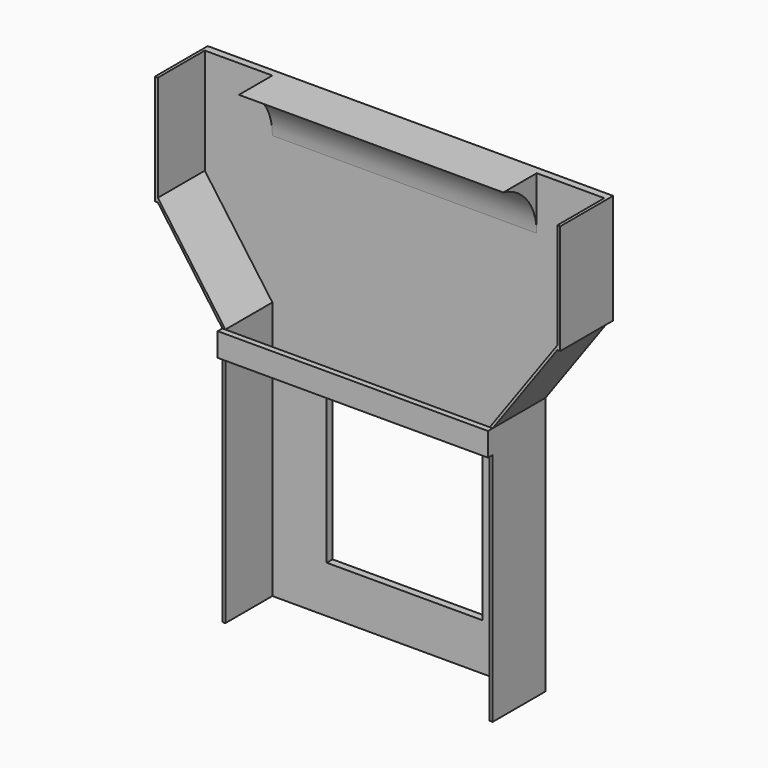
from build123d import *

# Parameters (mm, degrees)
F0_W      = 285.75
F0_H      = 279.4
F1_DEPTH  = 3.175
F2_W      = 285.75
F2_H      = 66.675
F3_DEPTH  = 215.9
F4_W      = 58.7375
F4_H      = 100.0125
F5_DEPTH  = 285.75
F6_W      = 285.75
F6_H      = 4.7625
F7_DEPTH  = 279.4
F9_DEPTH  = 25.4
F10_W     = 63.5
F10_H     = 279.4
F10_W_2   = 7.9375
F11_DEPTH = 3.175
F12_W     = 63.5
F12_H     = 279.4
F12_W_2   = 7.9375
F13_DEPTH = 3.175
F14_W     = 69.85
F14_H     = 71.4375
F15_DEPTH = 101.6
F17_DEPTH = 71.4375
F18_W     = 69.85
F18_H     = 71.4375
F19_DEPTH = 101.6
F21_DEPTH = 71.4375
F24_W     = 292.1
F24_H     = 25.4
F25_DEPTH = 6.35
F22_W     = 71.4375
F22_H     = 114.3
F22_H_2   = 4.4173913043
F26_DEPTH = 3.175
F23_W     = 71.4375
F23_H     = 4.4173913043
F23_H_2   = 114.3
F27_DEPTH = 3.175
F29_DEPTH = 101.6
F31_DEPTH = 25.4
F33_DEPTH = 101.6
F35_DEPTH = 25.4


with BuildPart() as f1:
    # F0 (on Front) → F1 (new body)
    with BuildSketch(Plane.XZ):
        with Locations((142.875, 139.7)):
            Rectangle(F0_W, F0_H)
    extrude(amount=F1_DEPTH)

    # F2 (on face) → F3 (join)
    with BuildSketch(Plane.XY.offset(279.4)):
        with Locations((142.875, -33.3375)):
            Rectangle(F2_W, F2_H)
    extrude(amount=F3_DEPTH)

    # F4 (on face) → F5 (cut)
    with BuildSketch(Plane.YZ.offset(285.75)):
        with Locations((-37.30625, 329.40625)):
            Rectangle(F4_W, F4_H)
        with BuildLine():
            Line((-7.9375, 379.4125), (-7.9375, 438.15))
            ThreePointArc((-7.9375, 438.15), (-25.1413154401, 396.6163154401), (-66.675, 379.4125))
            Line((-66.675, 379.4125), (-7.9375, 379.4125))
        make_face()
        with BuildLine():
            Line((-7.9375, 438.15), (-66.675, 438.15))
            Line((-66.675, 438.15), (-66.675, 379.4125))
            ThreePointArc((-66.675, 379.4125), (-25.1413154401, 396.6163154401), (-7.9375, 438.15))
        make_face()
        with BuildLine():
            Line((-53.1113940543, 495.3), (-66.675, 495.3))
            Line((-66.675, 495.3), (-66.675, 438.15))
            Line((-66.675, 438.15), (-7.9375, 438.15))
            ThreePointArc((-7.9375, 438.15), (-20.5947102305, 474.5739042527), (-53.1113940543, 495.3))
        make_face()
    extrude(amount=-F5_DEPTH, mode=Mode.SUBTRACT)

    # F6 (on face) → F7 (join)
    with BuildSketch(Plane(origin=(0, 0, 279.4), x_dir=(1, 0, 0), z_dir=(0, 0, -1))):
        with Locations((142.875, 5.55625)):
            Rectangle(F6_W, F6_H)
    extrude(amount=F7_DEPTH)

    # F8 (on face) → F9 (cut)
    with BuildSketch(Plane(origin=(0, 0, 0), x_dir=(-1, 0, 0), z_dir=(0, 1, 0))):
        Polygon((-227.0125, 50.8), (-142.875, 50.8), (-58.7375, 50.8), (-58.7375, 219.075), (-227.0125, 219.075), align=None)
    extrude(amount=-F9_DEPTH, mode=Mode.SUBTRACT)

    # F10 (on face) → F11 (join)
    with BuildSketch(Plane.YZ.offset(285.75)):
        with Locations((-39.6875, 139.7)):
            Rectangle(F10_W, F10_H)
        with Locations((-3.96875, 139.7)):
            Rectangle(F10_W_2, F10_H)
    extrude(amount=F11_DEPTH)

    # F12 (on face) → F13 (join)
    with BuildSketch(Plane(origin=(0, 0, 0), x_dir=(0, -1, 0), z_dir=(-1, 0, 0))):
        with Locations((39.6875, 139.7)):
            Rectangle(F12_W, F12_H)
        with Locations((3.96875, 139.7)):
            Rectangle(F12_W_2, F12_H)
    extrude(amount=F13_DEPTH)

    # F14 (on face) → F15 (join)
    with BuildSketch(Plane.XY.offset(279.4)):
        Polygon((0, -7.9375), (0, 0), (-3.175, 0), (-3.175, -71.4375), (0, -71.4375), align=None)
        with Locations((-38.1, -35.71875)):
            Rectangle(F14_W, F14_H)
    extrude(amount=F15_DEPTH)

    # F16 (on face) → F17 (cut)
    with BuildSketch(Plane.XZ.offset(71.4375)):
        Polygon((-73.025, 279.4), (-3.175, 279.4), (-40.2302153021, 330.9550821594), (-73.025, 376.5826086957), align=None)
        Polygon((-38.1367188436, 332.4597827389), (0, 279.4), (0, 381), (-73.025, 381), align=None)
    extrude(amount=-F17_DEPTH, mode=Mode.SUBTRACT)

    # F18 (on face) → F19 (join)
    with BuildSketch(Plane.XY.offset(279.4)):
        Polygon((288.925, 0), (285.75, 0), (285.75, -7.9375), (285.75, -71.4375), (288.925, -71.4375), align=None)
        with Locations((323.85, -35.71875)):
            Rectangle(F18_W, F18_H)
    extrude(amount=F19_DEPTH)

    # F20 (on face) → F21 (cut)
    with BuildSketch(Plane.XZ.offset(71.4375)):
        Polygon((285.75, 381), (285.75, 279.4), (324.7502719302, 333.6612479029), (358.775, 381), align=None)
        Polygon((326.8437683887, 332.1565473234), (288.925, 279.4), (358.775, 279.4), (358.775, 376.5826086957), align=None)
    extrude(amount=-F21_DEPTH, mode=Mode.SUBTRACT)

    # F24 (on face) → F25 (join)
    with BuildSketch(Plane.XZ.offset(71.4375)):
        with Locations((142.875, 266.7)):
            Rectangle(F24_W, F24_H)
        with Locations((142.875, 266.7)):
            Rectangle(F24_W, F24_H)
    extrude(amount=F25_DEPTH)

    # F22 (on face) → F26 (join)
    with BuildSketch(Plane.YZ.offset(358.775)):
        with Locations((-35.71875, 438.15)):
            Rectangle(F22_W, F22_H)
        with Locations((-35.71875, 378.7913043478)):
            Rectangle(F22_W, F22_H_2)
    extrude(amount=F26_DEPTH)

    # F23 (on face) → F27 (join)
    with BuildSketch(Plane(origin=(-73.025, 0, 0), x_dir=(0, -1, 0), z_dir=(-1, 0, 0))):
        with Locations((35.71875, 378.7913043478)):
            Rectangle(F23_W, F23_H)
        with Locations((35.71875, 438.15)):
            Rectangle(F23_W, F23_H_2)
    extrude(amount=F27_DEPTH)

    # F28 (on face) → F29 (join)
    with BuildSketch(Plane(origin=(0, 0, 0), x_dir=(0, -1, 0), z_dir=(-1, 0, 0))):
        Polygon((7.9375, 495.3), (0, 495.3), (0, 279.4), (7.9375, 279.4), (7.9375, 438.15), align=None)
    extrude(amount=F29_DEPTH)

    # F30 (on face) → F31 (cut)
    with BuildSketch(Plane.XZ.offset(7.9375)):
        Polygon((-76.2, 376.5826086957), (-76.2, 495.3), (-101.6, 495.3), (-101.6, 279.4), (-3.175, 279.4), (-73.025, 376.5826086957), align=None)
    extrude(amount=-F31_DEPTH, mode=Mode.SUBTRACT)

    # F32 (on face) → F33 (join)
    with BuildSketch(Plane.YZ.offset(285.75)):
        Polygon((0, 279.4), (0, 495.3), (-7.9375, 495.3), (-7.9375, 438.15), (-7.9375, 279.4), align=None)
    extrude(amount=F33_DEPTH)

    # F34 (on face) → F35 (cut)
    with BuildSketch(Plane.XZ.offset(7.9375)):
        Polygon((387.35, 495.3), (361.95, 495.3), (361.95, 376.5826086957), (358.775, 376.5826086957), (288.925, 279.4), (387.35, 279.4), align=None)
    extrude(amount=-F35_DEPTH, mode=Mode.SUBTRACT)


solid = f1.part
